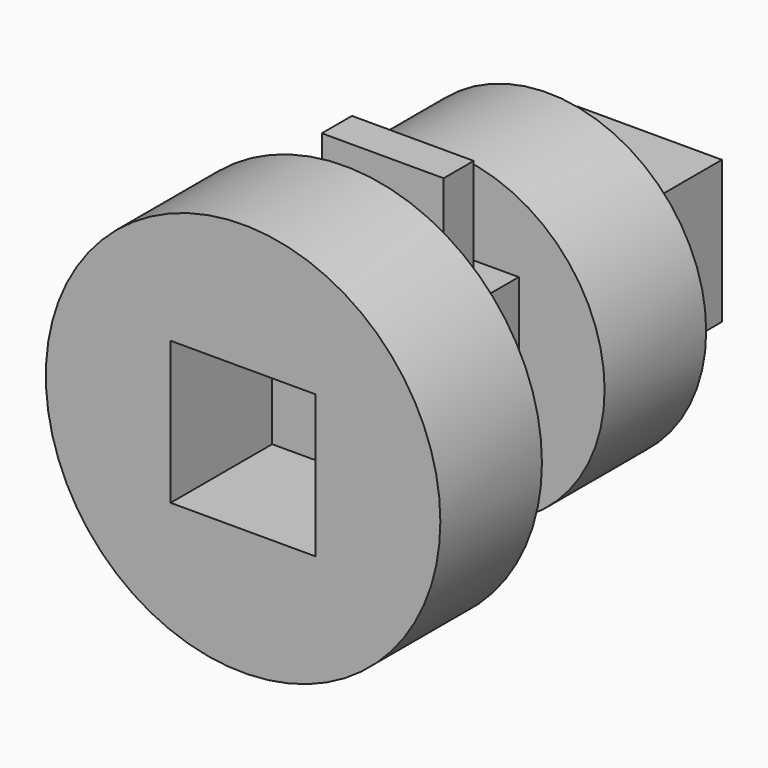
from build123d import *

# Parameters (mm, degrees)
F0_R          = 31.176317
F1_DEPTH      = 25
F2_W          = 28.550662
F2_H          = 28.090542
F3_DEPTH      = 25
F3_DEPTH_BACK = 50
F4_W          = 23.977553
F4_H          = 7.407701
F5_DEPTH      = 25
F6_R          = 38.840067
F6_W          = 28.550662
F6_H          = 28.090542
F7_DEPTH      = 25


with BuildPart() as f1:
    # F0 (on Front) → F1 (new body)
    with BuildSketch(Plane.XZ):
        Circle(F0_R)
    extrude(amount=-F1_DEPTH)

    # F2 (on face) → F3 (join, two sides)
    with BuildSketch(Plane.XZ) as f3_sk:
        Rectangle(F2_W, F2_H)
    extrude(amount=F3_DEPTH)
    extrude(f3_sk.sketch, amount=-F3_DEPTH_BACK)


with BuildPart() as f5:
    # F4 (on face) → F5 (new body)
    with BuildSketch(Plane.XY.offset(14.045271)):
        with Locations((2.713445, -15.321654)):
            Rectangle(F4_W, F4_H)
    extrude(amount=F5_DEPTH)


with BuildPart() as f7:
    # F6 (on face) → F7 (new body)
    with BuildSketch(Plane.XZ.offset(25)):
        Circle(F6_R)
        Rectangle(F6_W, F6_H, mode=Mode.SUBTRACT)
    extrude(amount=F7_DEPTH)


solid = Compound([f1.part, f5.part, f7.part])
